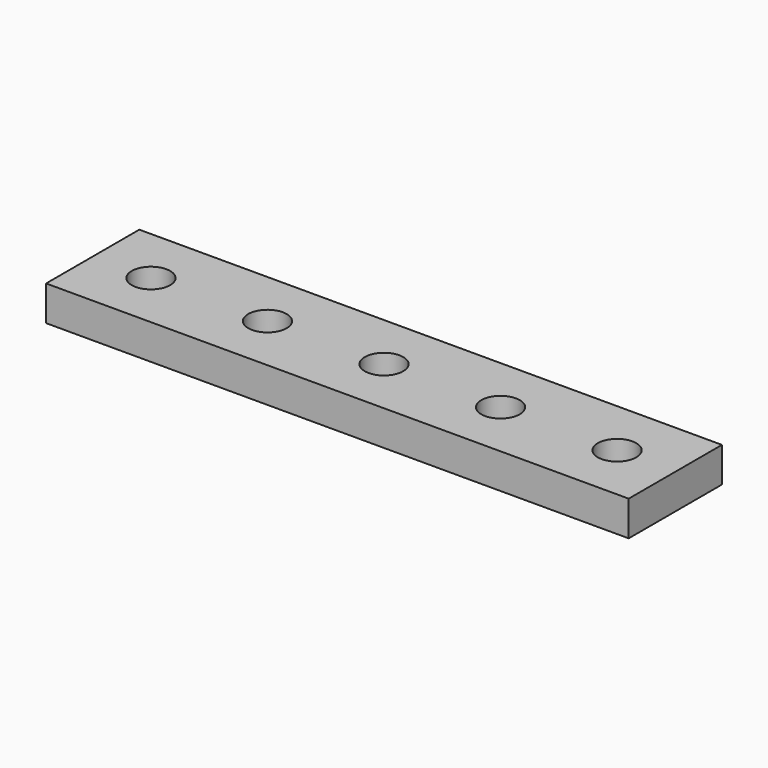
from build123d import *

# Parameters (mm, degrees)
SKETCH_W  = 50
SKETCH_H  = 10
SKETCH_R  = 1.65
PAD_DEPTH = 3


with BuildPart() as part:
    # Sketch → Pad (new body)
    with BuildSketch(Plane.XY):
        Rectangle(SKETCH_W, SKETCH_H)
        Circle(SKETCH_R, mode=Mode.SUBTRACT)
        with Locations((-20, 0)):
            Circle(SKETCH_R, mode=Mode.SUBTRACT)
        with Locations((-10, 0)):
            Circle(SKETCH_R, mode=Mode.SUBTRACT)
        with Locations((10, 0)):
            Circle(SKETCH_R, mode=Mode.SUBTRACT)
        with Locations((20, 0)):
            Circle(SKETCH_R, mode=Mode.SUBTRACT)
    extrude(amount=PAD_DEPTH)


solid = part.part
